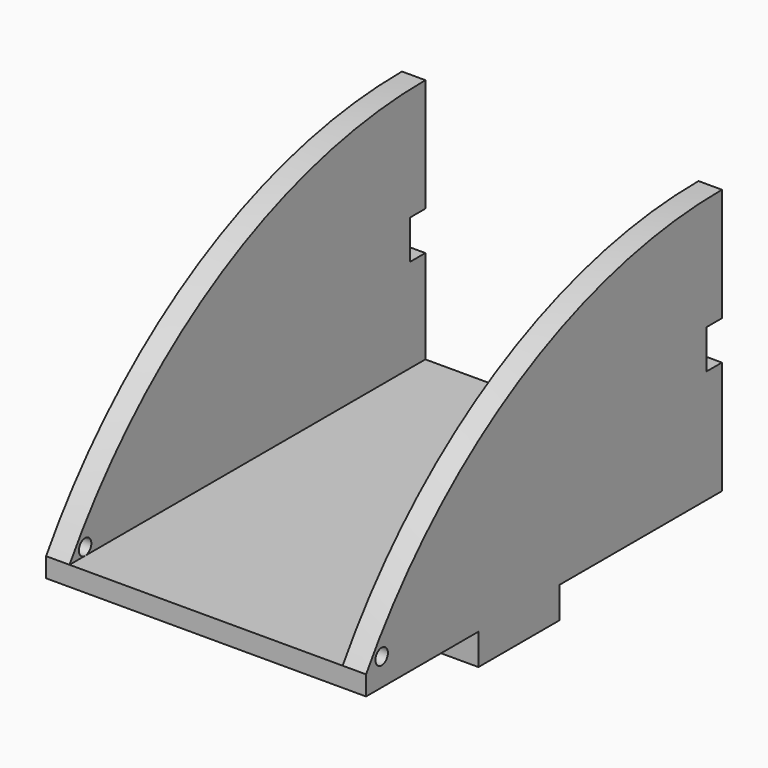
from build123d import *

# Parameters (mm, degrees)
F0_W      = 41
F0_H      = 57
F1_DEPTH  = 34
F2_W      = 35
F2_H      = 57
F3_DEPTH  = 31.5
F5_DEPTH  = 41.001
F6_R      = 1
F7_DEPTH  = 41.001
F8_W      = 3
F8_H      = 5
F8_W_2    = 5
F8_H_2    = 2.5
F9_DEPTH  = 2.5
F10_W     = 5
F10_H     = 13
F11_DEPTH = 4


with BuildPart() as f1:
    # F0 (on Top) → F1 (new body)
    with BuildSketch(Plane.XY):
        with Locations((-3.310106, 5.843145)):
            Rectangle(F0_W, F0_H)
    extrude(amount=F1_DEPTH)

    # F2 (on face) → F3 (cut)
    with BuildSketch(Plane.XY.offset(34)):
        with Locations((-3.310106, 5.843145)):
            Rectangle(F2_W, F2_H)
    extrude(amount=-F3_DEPTH, mode=Mode.SUBTRACT)

    # F4 (on face) → F5 (cut, through all)
    with BuildSketch(Plane.YZ.offset(17.189894)):
        with BuildLine():
            ThreePointArc((-22.656855, 2.5), (1.780705, 25.601082), (34.343145, 34))
            Line((34.343145, 34), (-22.656855, 34))
            Line((-22.656855, 34), (-22.656855, 2.5))
        make_face()
    extrude(amount=-F5_DEPTH, mode=Mode.SUBTRACT)

    # F6 (on face) → F7 (cut, through all)
    with BuildSketch(Plane.YZ.offset(17.189894)):
        with Locations((-20.156855, 3.5)):
            Circle(F6_R)
    extrude(amount=-F7_DEPTH, mode=Mode.SUBTRACT)

    # F8 (on face) → F9 (cut)
    with BuildSketch(Plane(origin=(0, 34.343145, 0), x_dir=(-1, 0, 0), z_dir=(0, 1, 0))):
        with Locations((-15.689894, 17)):
            Rectangle(F8_W, F8_H)
        with Locations((3.310106, 1.25)):
            Rectangle(F8_W_2, F8_H_2)
        with Locations((22.310106, 17)):
            Rectangle(F8_W, F8_H)
    extrude(amount=-F9_DEPTH, mode=Mode.SUBTRACT)

    # F10 (on face) → F11 (join)
    with BuildSketch(Plane(origin=(0, 0, 0), x_dir=(1, 0, 0), z_dir=(0, 0, -1))):
        with Locations((14.689894, -1.843145)):
            Rectangle(F10_W, F10_H)
        with Locations((-21.310106, -1.843145)):
            Rectangle(F10_W, F10_H)
    extrude(amount=F11_DEPTH)


solid = f1.part
